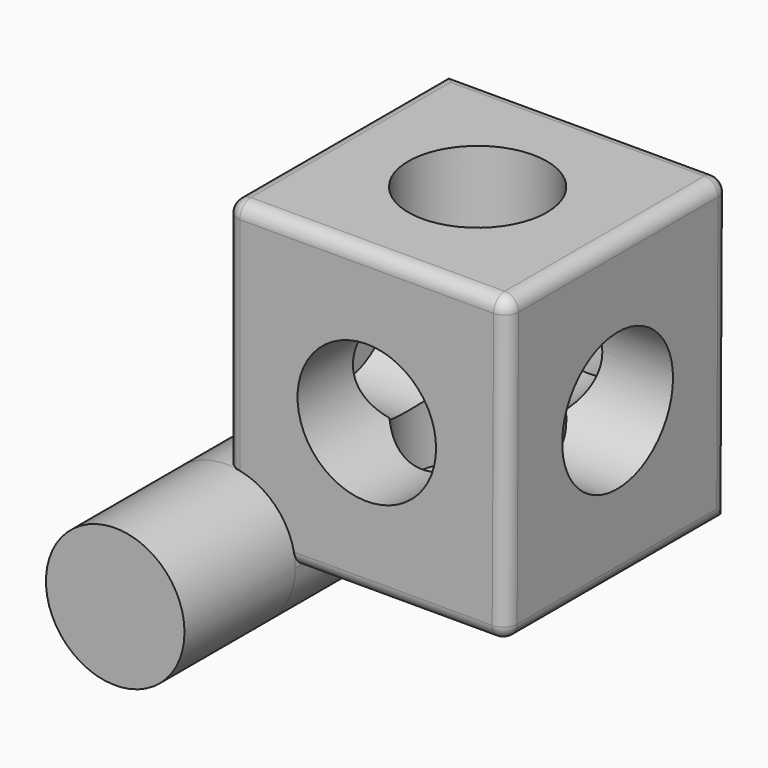
from build123d import *

# Parameters (mm, degrees)
F1_DEPTH       = 101.6
F2_R           = 25.4
F3_DEPTH       = 101.6
F4_R           = 25.4
F5_DEPTH       = 101.6
F6_R           = 25.4
F7_DEPTH       = 101.6
F8_R           = 5.08
F10_R          = 25.4
F11_DEPTH      = 50.8
F11_DEPTH_BACK = 152.4


with BuildPart() as f1:
    # F0 (on Front) → F1 (new body)
    with BuildSketch(Plane.XZ):
        Polygon((0, 111.0033169389), (0, 0), (102.6293933392, 0), (103.2077670097, 111.0033169389), align=None)
    extrude(amount=F1_DEPTH)

    # F2 (on face) → F3 (cut)
    with BuildSketch(Plane.XY.offset(111.0033169389)):
        with Locations((51.6038835049, -50.8)):
            Circle(F2_R)
    extrude(amount=-F3_DEPTH, mode=Mode.SUBTRACT)

    # F4 (on face) → F5 (cut)
    with BuildSketch(Plane(origin=(102.6266071854, 0, -0.5347275121), x_dir=(0, 1, 0), z_dir=(0.999986426, 0, -0.0052103472))):
        with Locations((-50.8, 56.037146627)):
            Circle(F4_R)
    extrude(amount=-F5_DEPTH, mode=Mode.SUBTRACT)

    # F6 (on face) → F7 (cut)
    with BuildSketch(Plane.XZ.offset(101.6)):
        with Locations((51.6038835049, 55.5016584694)):
            Circle(F6_R)
    extrude(amount=-F7_DEPTH, mode=Mode.SUBTRACT)

    # F8
    f8_edges = [f1.edges().sort_by_distance(p)[0] for p in [
        (0, -50.8, 111.003317),
        (51.603884, -101.6, 111.003317),
        (103.207767, -50.8, 111.003317),
        (51.603884, 0, 111.003317),
        (102.91858, 0, 55.501658),
        (102.91858, -101.6, 55.501658),
        (102.629393, -50.8, 0),
        (51.314697, -101.6, 0),
        (0, -101.6, 55.501658),
    ]]
    fillet(f8_edges, radius=F8_R)

    # F10 (on offset) → F11 (join, two sides)
    with BuildSketch(Plane.XZ.offset(101.6)) as f11_sk:
        Circle(F10_R)
    extrude(amount=F11_DEPTH)
    extrude(f11_sk.sketch, amount=-F11_DEPTH_BACK)


solid = f1.part
